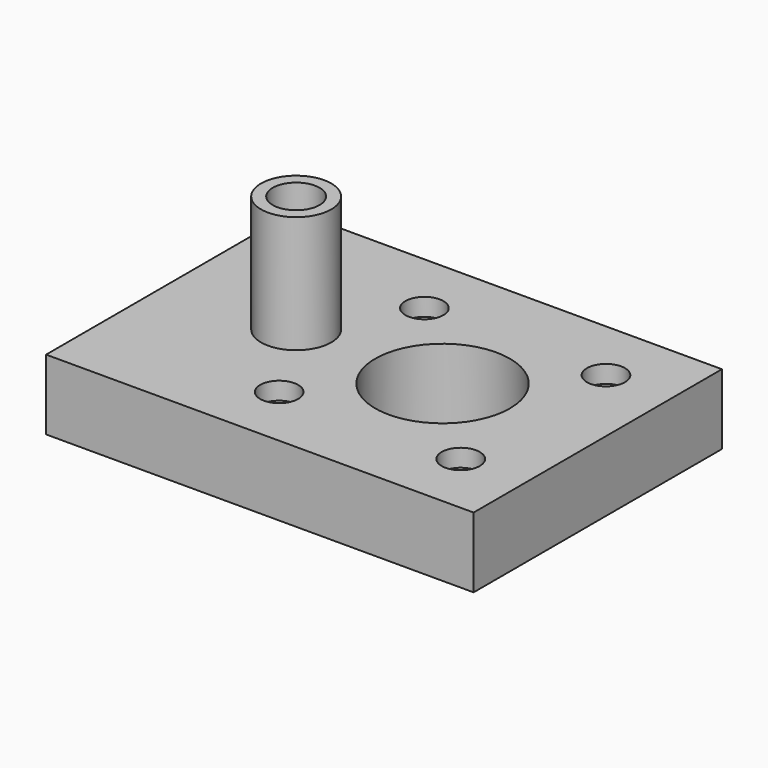
from build123d import *

# Parameters (mm, degrees)
F0_W           = 73
F0_H           = 53
F0_R           = 6
F0_R_2         = 11.5
F0_R_3         = 4
F1_DEPTH       = 12
F2_DEPTH       = 20
F3_D           = 3.3
F3_CBORE_D     = 6.5
F3_CBORE_DEPTH = 3


with BuildPart() as f1:
    # F0 (on Top) → F1 (new body)
    with BuildSketch(Plane.XY):
        Rectangle(F0_W, F0_H)
        with Locations((-15, 0)):
            Circle(F0_R, mode=Mode.SUBTRACT)
        with Locations((10, 0)):
            Circle(F0_R_2, mode=Mode.SUBTRACT)
        with Locations((-15, 0)):
            Circle(F0_R)
        with Locations((-15, 0)):
            Circle(F0_R_3, mode=Mode.SUBTRACT)
        with Locations((-15, 0)):
            Circle(F0_R_3)
    extrude(amount=-F1_DEPTH)

    # F0 (on Top) → F2 (join)
    with BuildSketch(Plane.XY):
        with Locations((-15, 0)):
            Circle(F0_R)
        with Locations((-15, 0)):
            Circle(F0_R_3, mode=Mode.SUBTRACT)
    extrude(amount=F2_DEPTH)

    # F3 (through all)
    with Locations(Plane.XY):
        with Locations((-5.5, 15.5), (25.5, 15.5), (25.5, -15.5), (-5.5, -15.5)):
            CounterBoreHole(F3_D / 2, F3_CBORE_D / 2, F3_CBORE_DEPTH)


solid = f1.part
